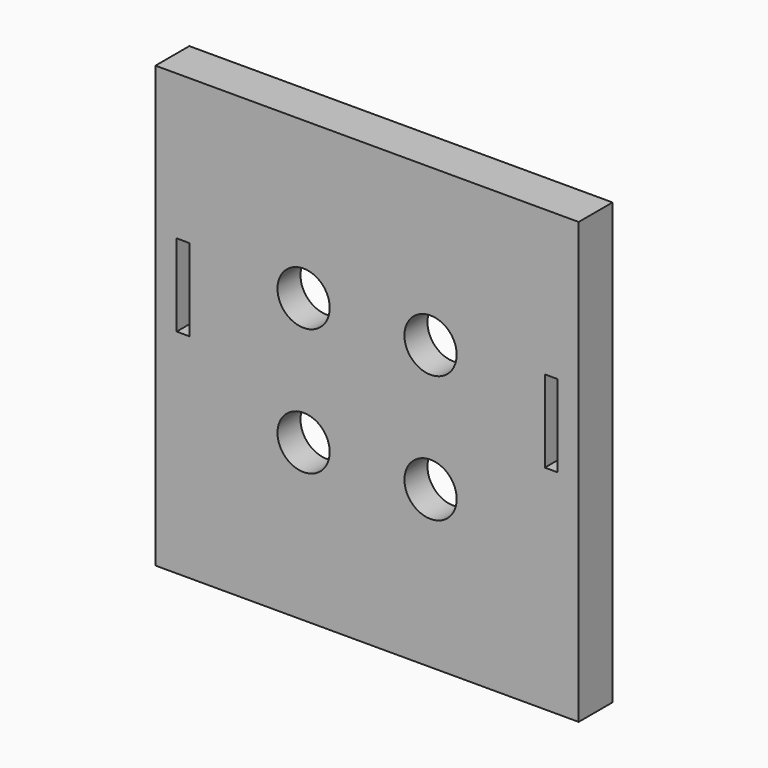
from build123d import *

# Parameters (mm, degrees)
F0_W     = 50
F0_H     = 52
F0_W_2   = 1.5
F0_H_2   = 9.7
F1_DEPTH = 5
F2_R     = 5.9215
F3_DEPTH = 1.6
F4_R     = 3.0875
F5_DEPTH = 5.001


with BuildPart() as f1:
    # F0 (on Front) → F1 (new body)
    with BuildSketch(Plane.XZ):
        Rectangle(F0_W, F0_H)
        with Locations((-21.75, 4)):
            Rectangle(F0_W_2, F0_H_2, mode=Mode.SUBTRACT)
        with Locations((21.75, 4)):
            Rectangle(F0_W_2, F0_H_2, mode=Mode.SUBTRACT)
    extrude(amount=F1_DEPTH)

    # F2 (on Front) → F3 (cut)
    with BuildSketch(Plane.XZ):
        with Locations((7.5, 7.5)):
            Circle(F2_R)
        with Locations((7.5, -7.5)):
            Circle(F2_R)
        with Locations((-7.5, -7.5)):
            Circle(F2_R)
        with Locations((-7.5, 7.5)):
            Circle(F2_R)
    extrude(amount=F3_DEPTH, mode=Mode.SUBTRACT)

    # F4 (on Front) → F5 (cut, through all)
    with BuildSketch(Plane.XZ):
        with Locations((7.5, 7.5)):
            Circle(F4_R)
        with Locations((-7.5, 7.5)):
            Circle(F4_R)
        with Locations((-7.5, -7.5)):
            Circle(F4_R)
        with Locations((7.5, -7.5)):
            Circle(F4_R)
    extrude(amount=F5_DEPTH, mode=Mode.SUBTRACT)


solid = f1.part
